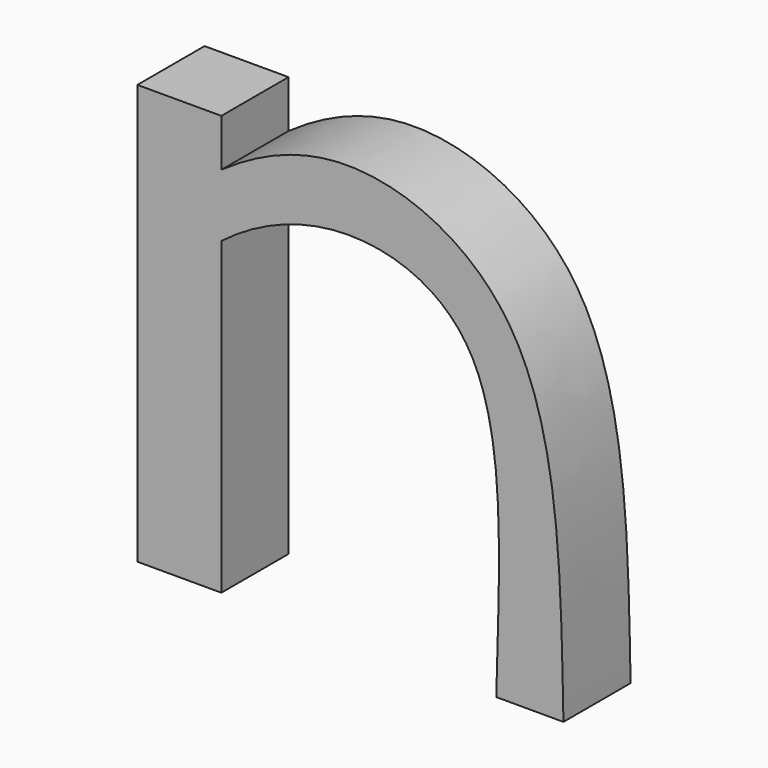
from build123d import *

# Parameters (mm, degrees)
F1_DEPTH = 25.4
F2_DEPTH = 25.4


with BuildPart() as f1:
    # F0 (on Front) → F1 (new body)
    with BuildSketch(Plane.XZ):
        with BuildLine():
            Line((-35.3264257897, 48.8614528171), (-35.3264257897, 63.2080607833))
            Line((-35.3264257897, 63.2080607833), (-60.7264257897, 63.2080607833))
            Line((-60.7264257897, 63.2080607833), (-60.7264257897, -63.7919392167))
            Line((-60.7264257897, -63.7919392167), (-35.3264257897, -63.7919392167))
            Line((-35.3264257897, -63.7919392167), (-35.3264257897, 29.905978406))
            add(Edge.make_bspline(
                [(-46.1009658659, 19.9789523711), (-42.7459093769, 23.6489286373), (-39.1349334235, 26.9765179268), (-35.3264257897, 29.905978406)],
                knots=[0, 0, 0, 0, 0.0823544213, 0.0823544213, 0.0823544213, 0.0823544213], degree=3))
            Line((-46.1009658659, 19.9789523711), (-46.1009658659, 40.2989523711))
            add(Edge.make_bspline(
                [(-46.1009658659, 40.2989523711), (-42.6815098361, 43.3195672609), (-39.0868153798, 46.2161778041), (-35.3264257897, 48.8614528171)],
                knots=[0, 0, 0, 0, 0.0756131262, 0.0756131262, 0.0756131262, 0.0756131262], degree=3))
        make_face()
    extrude(amount=F1_DEPTH)

    # F0 (on Front) → F2 (join)
    with BuildSketch(Plane.XZ):
        with BuildLine():
            add(Edge.make_bspline(
                [(-35.3264257897, 48.8614528171), (-24.7833446511, 56.2780644281), (4.1310700064, 69.5590012299), (67.4064550795, 42.3861574196), (67.3398734526, -27.2773219018), (68.1603402373, -64.53786121)],
                knots=[0.0756131262, 0.0756131262, 0.0756131262, 0.0756131262, 0.2876111934, 0.5930886068, 1, 1, 1, 1], degree=3))
            Line((-35.3264257897, 48.8614528171), (-35.3264257897, 29.905978406))
            add(Edge.make_bspline(
                [(-35.3264257897, 29.905978406), (-24.9470871394, 37.8896468925), (1.7558109473, 49.2201404918), (52.8200668333, 32.1217337272), (48.7806789214, -26.8495303504), (47.8403402373, -64.53786121)],
                knots=[0.0823544213, 0.0823544213, 0.0823544213, 0.0823544213, 0.3067952024, 0.5882623954, 1, 1, 1, 1], degree=3))
            Line((47.8403402373, -64.53786121), (68.1603402373, -64.53786121))
        make_face()
        with BuildLine():
            Line((-35.3264257897, 29.905978406), (-35.3264257897, 48.8614528171))
            add(Edge.make_bspline(
                [(-46.1009658659, 40.2989523711), (-42.6815098361, 43.3195672609), (-39.0868153798, 46.2161778041), (-35.3264257897, 48.8614528171)],
                knots=[0, 0, 0, 0, 0.0756131262, 0.0756131262, 0.0756131262, 0.0756131262], degree=3))
            Line((-46.1009658659, 40.2989523711), (-46.1009658659, 19.9789523711))
            add(Edge.make_bspline(
                [(-46.1009658659, 19.9789523711), (-42.7459093769, 23.6489286373), (-39.1349334235, 26.9765179268), (-35.3264257897, 29.905978406)],
                knots=[0, 0, 0, 0, 0.0823544213, 0.0823544213, 0.0823544213, 0.0823544213], degree=3))
        make_face()
    extrude(amount=F2_DEPTH)


solid = f1.part
